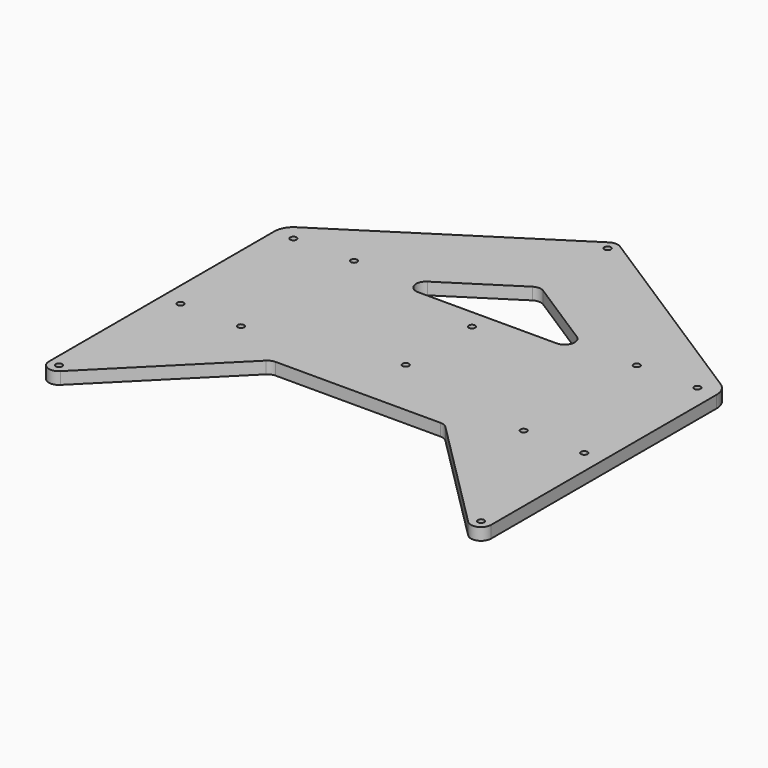
from build123d import *

# Parameters (mm, degrees)
F0_R     = 1.5875
F1_DEPTH = 6


with BuildPart() as f1:
    # F0 (on Top) → F1 (new body)
    with BuildSketch(Plane.XY):
        with BuildLine():
            Line((-109.5, 35), (-109.5, -104.5))
            ThreePointArc((-109.5, -104.5), (-106.413417, -109.119398), (-100.964466, -108.035534))
            Line((-100.964466, -108.035534), (-44.393398, -51.464466))
            ThreePointArc((-44.393398, -51.464466), (-42.771282, -50.380602), (-40.857864, -50))
            Line((-40.857864, -50), (0, -50))
            Line((0, -50), (40.857864, -50))
            ThreePointArc((40.857864, -50), (42.771282, -50.380602), (44.393398, -51.464466))
            Line((44.393398, -51.464466), (100.964466, -108.035534))
            ThreePointArc((100.964466, -108.035534), (106.413417, -109.119398), (109.5, -104.5))
            Line((109.5, -104.5), (109.5, 35))
            ThreePointArc((109.5, 35), (108.336136, 39.556187), (105.129719, 42.995998))
            Line((105.129719, 42.995998), (2.699852, 108.70842))
            ThreePointArc((2.699852, 108.70842), (1.406752, 109.298026), (0, 109.5))
            ThreePointArc((0, 109.5), (-1.406752, 109.298026), (-2.699852, 108.70842))
            Line((-2.699852, 108.70842), (-105.129719, 42.995998))
            ThreePointArc((-105.129719, 42.995998), (-108.336136, 39.556187), (-109.5, 35))
        make_face()
        with Locations((-104.5, -104.5)):
            Circle(F0_R, mode=Mode.SUBTRACT)
        with Locations((-100, -35)):
            Circle(F0_R, mode=Mode.SUBTRACT)
        with Locations((-70, -35)):
            Circle(F0_R, mode=Mode.SUBTRACT)
        with Locations((104.5, -104.5)):
            Circle(F0_R, mode=Mode.SUBTRACT)
        with Locations((0, -20.5)):
            Circle(F0_R, mode=Mode.SUBTRACT)
        with Locations((70, -35)):
            Circle(F0_R, mode=Mode.SUBTRACT)
        with Locations((100, -35)):
            Circle(F0_R, mode=Mode.SUBTRACT)
        with Locations((-100, 35)):
            Circle(F0_R, mode=Mode.SUBTRACT)
        with Locations((-70, 35)):
            Circle(F0_R, mode=Mode.SUBTRACT)
        with Locations((0, 20.5)):
            Circle(F0_R, mode=Mode.SUBTRACT)
        with BuildLine():
            Line((34.255654, 30), (0, 30))
            Line((0, 30), (-34.255654, 30))
            ThreePointArc((-34.255654, 30), (-39.05368, 33.593248), (-36.955506, 39.20842))
            Line((-36.955506, 39.20842), (-2.699852, 61.184647))
            ThreePointArc((-2.699852, 61.184647), (0, 61.976227), (2.699852, 61.184647))
            Line((2.699852, 61.184647), (36.955506, 39.20842))
            ThreePointArc((36.955506, 39.20842), (39.05368, 33.593248), (34.255654, 30))
        make_face(mode=Mode.SUBTRACT)
        with Locations((70, 35)):
            Circle(F0_R, mode=Mode.SUBTRACT)
        with Locations((100, 35)):
            Circle(F0_R, mode=Mode.SUBTRACT)
        with Locations((0, 104.5)):
            Circle(F0_R, mode=Mode.SUBTRACT)
    extrude(amount=F1_DEPTH)


solid = f1.part
